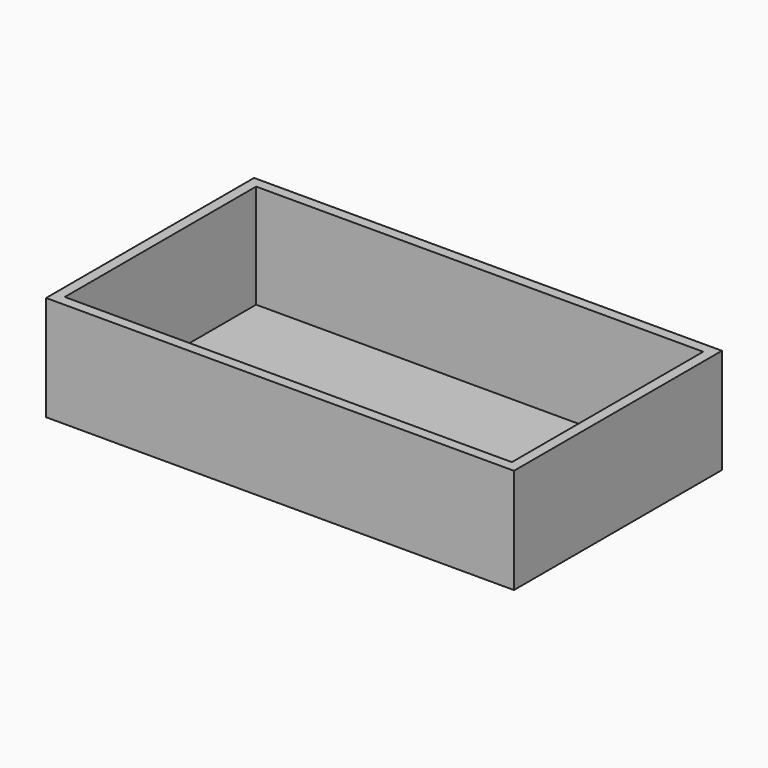
from build123d import *

# Parameters (mm, degrees)
F0_W     = 900
F0_H     = 500
F0_W_2   = 859.9999784998
F0_H_2   = 459.9999784998
F1_DEPTH = 2
F2_DEPTH = 200


with BuildPart() as f1:
    # F0 (on Top) → F1 (new body)
    with BuildSketch(Plane.XY):
        with Locations((61.6475753486, 38.3969247554)):
            Rectangle(F0_W, F0_H)
        with Locations((61.6475753486, 38.3969247554)):
            Rectangle(F0_W_2, F0_H_2, mode=Mode.SUBTRACT)
        with Locations((61.6475753486, 38.3969247554)):
            Rectangle(F0_W_2, F0_H_2)
    extrude(amount=-F1_DEPTH)

    # F0 (on Top) → F2 (join)
    with BuildSketch(Plane.XY):
        with Locations((61.6475753486, 38.3969247554)):
            Rectangle(F0_W, F0_H)
        with Locations((61.6475753486, 38.3969247554)):
            Rectangle(F0_W_2, F0_H_2, mode=Mode.SUBTRACT)
    extrude(amount=F2_DEPTH)


solid = f1.part
